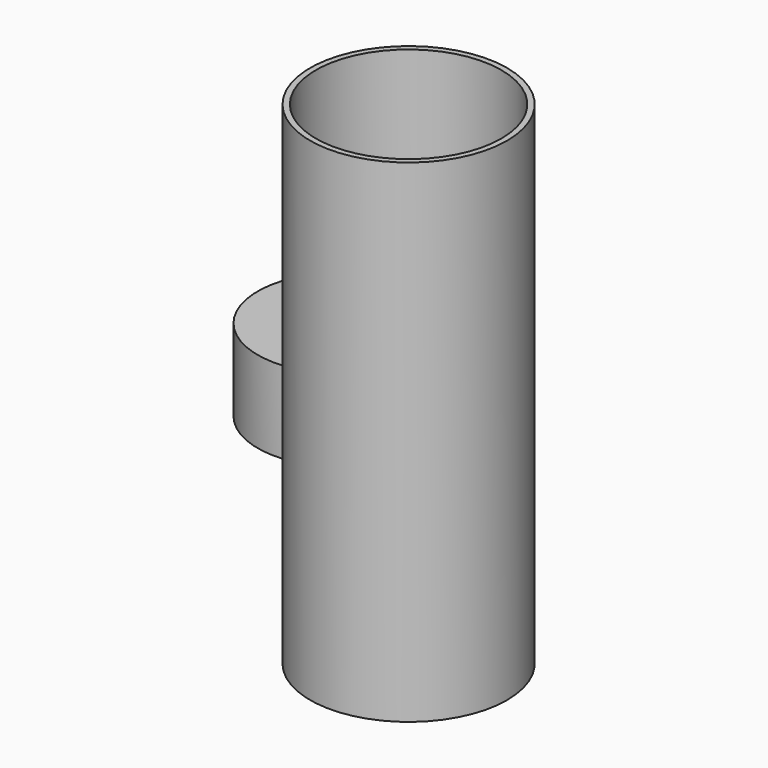
from build123d import *

# Parameters (mm, degrees)
F0_R     = 15.24
F1_DEPTH = 76.2
F2_R     = 14.351
F3_DEPTH = 72.898
F4_R     = 13.335
F5_DEPTH = 12.7
F6_R     = 10.980318
F7_DEPTH = 9.906
F8_W     = 11.090502
F8_H     = 1.584351
F9_DEPTH = 8.636


with BuildPart() as f1:
    # F0 (on Top) → F1 (new body)
    with BuildSketch(Plane.XY):
        Circle(F0_R)
    extrude(amount=F1_DEPTH)

    # F2 (on face) → F3 (cut)
    with BuildSketch(Plane.XY.offset(76.2)):
        Circle(F2_R)
    extrude(amount=-F3_DEPTH, mode=Mode.SUBTRACT)


with BuildPart() as f5:
    # F4 (on Top) → F5 (new body)
    with BuildSketch(Plane.XY):
        with Locations((-46.540473, 45.649268)):
            Circle(F4_R)
    extrude(amount=F5_DEPTH)

    # F6 (on face) → F7 (cut)
    with BuildSketch(Plane(origin=(0, 0, 0), x_dir=(1, 0, 0), z_dir=(0, 0, -1))):
        with Locations((-46.540473, -45.649268)):
            Circle(F6_R)
    extrude(amount=-F7_DEPTH, mode=Mode.SUBTRACT)

    # F8 (on face) → F9 (join)
    with BuildSketch(Plane.XY.offset(12.7)):
        with Locations((-46.540473, 45.649268)):
            Rectangle(F8_W, F8_H)
    extrude(amount=F9_DEPTH)


solid = Compound([f1.part, f5.part])
